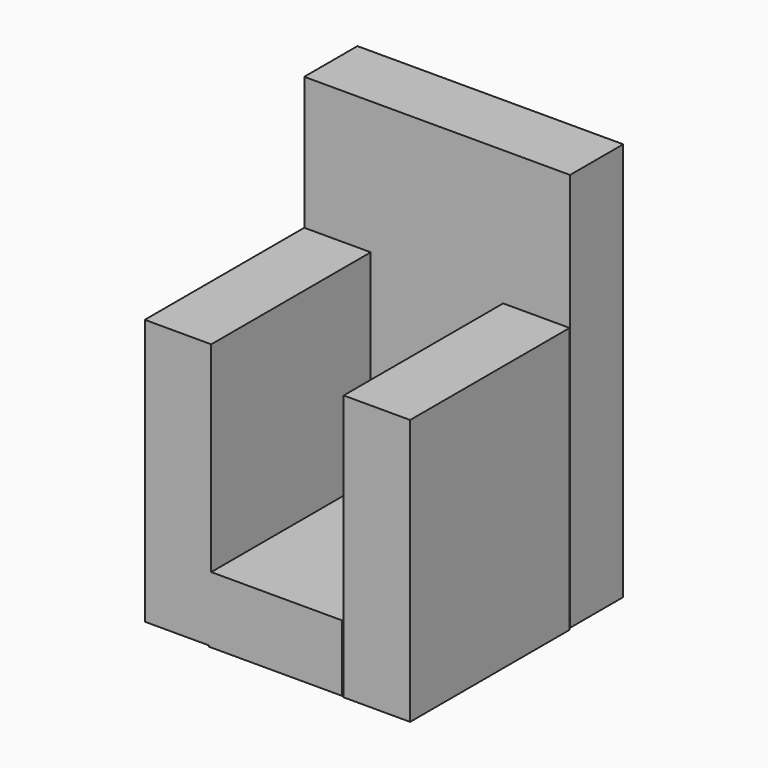
from build123d import *

# Parameters (mm, degrees)
F1_DEPTH = 50.8
F0_W     = 38.1
F0_H     = 50.8
F2_DEPTH = 12.7
F3_W     = 25.4
F3_H     = 12.7
F4_DEPTH = 38.1
F5_W     = 12.7
F5_H     = 50.8
F6_DEPTH = 38.1


with BuildPart() as f1:
    # F0 (on Right) → F1 (new body)
    with BuildSketch(Plane.YZ):
        Polygon((38.1, 0), (38.1, -25.4), (38.1, -76.2), (50.8, -76.2), (50.8, 0), align=None)
    extrude(amount=F1_DEPTH)

    # F0 (on Right) → F2 (join)
    with BuildSketch(Plane.YZ):
        with Locations((19.05, -50.8)):
            Rectangle(F0_W, F0_H)
    extrude(amount=F2_DEPTH)

    # F3 (on Front) → F4 (join)
    with BuildSketch(Plane.XZ):
        with Locations((25.014978, -70.070165)):
            Rectangle(F3_W, F3_H)
    extrude(amount=-F4_DEPTH)

    # F5 (on Front) → F6 (join)
    with BuildSketch(Plane.XZ):
        with Locations((44.36385, -51.16912)):
            Rectangle(F5_W, F5_H)
    extrude(amount=-F6_DEPTH)


solid = f1.part
